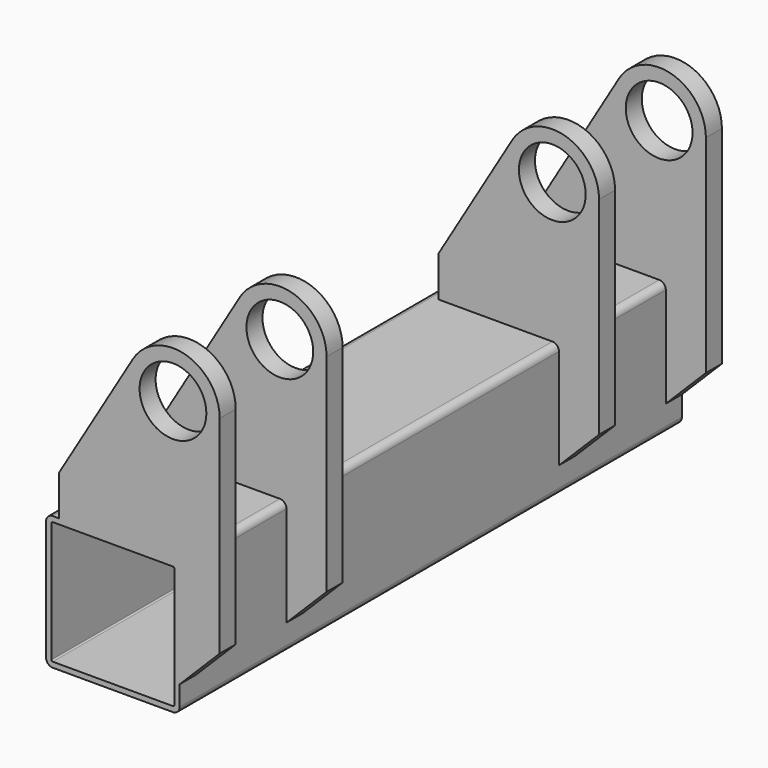
from build123d import *

# Parameters (mm, degrees)
F1_DEPTH = 235
F2_T     = -4
F0_R     = 25
F3_DEPTH = 15


with BuildPart() as f1:
    # F0 (on Front) → F1 (new body)
    with BuildSketch(Plane.XZ):
        with BuildLine():
            ThreePointArc((50, 45), (48.5355339059, 48.5355339059), (45, 50))
            Line((45, 50), (-40.3777472675, 50))
            Line((-40.3777472675, 50), (-45, 50))
            ThreePointArc((-45, 50), (-48.5355339059, 48.5355339059), (-50, 45))
            Line((-50, 45), (-50, -45))
            ThreePointArc((-50, -45), (-48.5355339059, -48.5355339059), (-45, -50))
            Line((-45, -50), (45, -50))
            ThreePointArc((45, -50), (48.5355339059, -48.5355339059), (50, -45))
            Line((50, -45), (50, -30))
            Line((50, -30), (50, 45))
        make_face()
    extrude(amount=-F1_DEPTH)

    # F2
    f2_openings = [f1.faces().sort_by_distance(p)[0] for p in [
        (0, 0, 0),
        (0, 235, 0),
    ]]
    offset(amount=F2_T, openings=f2_openings)

    # F0 (on Front) → F3 (join)
    with BuildSketch(Plane.XZ):
        with BuildLine():
            Line((-40.3777472675, 50), (45, 50))
            ThreePointArc((45, 50), (48.5355339059, 48.5355339059), (50, 45))
            Line((50, 45), (50, -30))
            Line((50, -30), (80, 0))
            Line((80, 0), (80, 155))
            ThreePointArc((80, 155), (54.2839853809, 188.7462237213), (14.9252791173, 172.9028255822))
            Line((14.9252791173, 172.9028255822), (-40.3777472675, 80))
            Line((-40.3777472675, 80), (-40.3777472675, 50))
        make_face()
        with Locations((45, 155)):
            Circle(F0_R, mode=Mode.SUBTRACT)
    extrude(amount=-F3_DEPTH)


with BuildPart() as f4_1:
    # F4: copy of F1
    add(f1.part.moved(Location((0, 100, 0))))


with BuildPart() as f1_1:
    add(f1.part)

    add(f4_1.part)  # F5 merges F4_1
    # F5: F1, F4_1 across face
    add(f1.part.mirror(Plane(origin=(0, 235, 0), x_dir=(1, 0, 0), z_dir=(0, 1, 0))))
    add(f4_1.part.mirror(Plane(origin=(0, 235, 0), x_dir=(1, 0, 0), z_dir=(0, 1, 0))))


solid = f1_1.part
